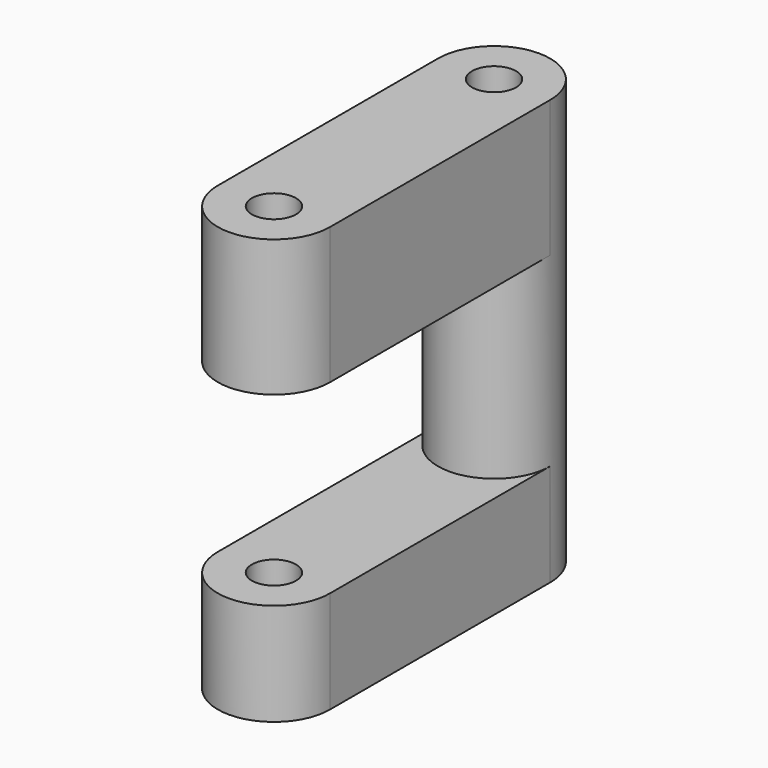
from build123d import *

# Parameters (mm, degrees)
F0_R     = 5.9319111077
F1_DEPTH = 114.3
F2_W     = 74.0328431129
F2_H     = 50.0019490719
F2_W_2   = 18.4651985765
F3_DEPTH = 30.2013677934
F4_DEPTH = 81.026


with BuildPart() as f1:
    # F0 (on Top) → F1 (new body)
    with BuildSketch(Plane.XY):
        with BuildLine():
            Line((15.1001838967, -37.0164215565), (15.1001838967, 37.0164215565))
            ThreePointArc((15.1001838967, 37.0164215565), (0, 21.9162376598), (-15.1001838967, 37.0164215565))
            Line((-15.1001838967, 37.0164215565), (-15.1001838967, -37.0164215565))
            ThreePointArc((-15.1001838967, -37.0164215565), (0, -21.9162376598), (15.1001838967, -37.0164215565))
        make_face()
        with BuildLine():
            ThreePointArc((-15.1001838967, -37.0164215565), (0, -52.1166054532), (15.1001838967, -37.0164215565))
            ThreePointArc((15.1001838967, -37.0164215565), (0, -21.9162376598), (-15.1001838967, -37.0164215565))
        make_face()
        with Locations((0, -37.0164215565)):
            Circle(F0_R, mode=Mode.SUBTRACT)
        with BuildLine():
            ThreePointArc((-15.1001838967, 37.0164215565), (0, 21.9162376598), (15.1001838967, 37.0164215565))
            ThreePointArc((15.1001838967, 37.0164215565), (0, 52.1166054532), (-15.1001838967, 37.0164215565))
        make_face()
        with Locations((0, 37.0164215565)):
            Circle(F0_R, mode=Mode.SUBTRACT)
    extrude(amount=F1_DEPTH)

    # F2 (on face) → F3 (cut, through all)
    with BuildSketch(Plane.YZ.offset(15.1001838967)):
        with Locations((0, 52.5265261531)):
            Rectangle(F2_W, F2_H)
        with Locations((-46.2490208447, 52.5265261531)):
            Rectangle(F2_W_2, F2_H)
        with Locations((46.2490208447, 52.5265261531)):
            Rectangle(F2_W_2, F2_H)
    extrude(amount=-F3_DEPTH, mode=Mode.SUBTRACT)

    # F0 (on Top) → F4 (join)
    with BuildSketch(Plane.XY):
        with BuildLine():
            ThreePointArc((-15.1001838967, 37.0164215565), (0, 21.9162376598), (15.1001838967, 37.0164215565))
            ThreePointArc((15.1001838967, 37.0164215565), (0, 52.1166054532), (-15.1001838967, 37.0164215565))
        make_face()
        with Locations((0, 37.0164215565)):
            Circle(F0_R, mode=Mode.SUBTRACT)
    extrude(amount=F4_DEPTH)


solid = f1.part
